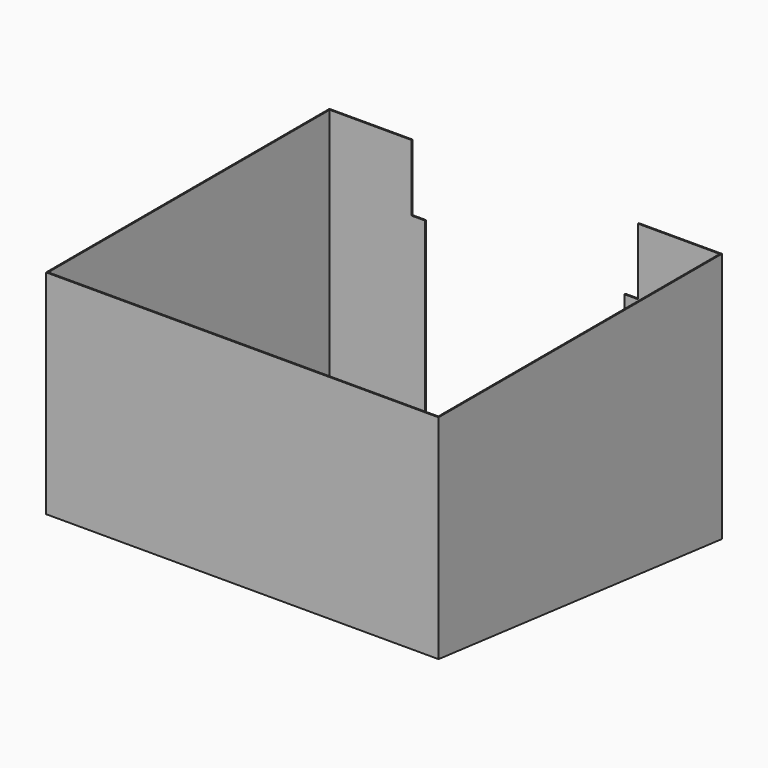
from build123d import *

# Parameters (mm, degrees)
F1_DEPTH = 749.3
F2_T     = -2.286
F4_DEPTH = 3.175


with BuildPart() as f1:
    # F0 (on Right) → F1 (new body)
    with BuildSketch(Plane.YZ):
        Polygon((-676.275, 73.025), (0, 0), (0, 479.425), (-676.275, 479.425), align=None)
    extrude(amount=F1_DEPTH)

    # F2
    f2_openings = [f1.faces().sort_by_distance(p)[0] for p in [
        (374.65, -338.1375, 479.425),
    ]]
    offset(amount=F2_T, openings=f2_openings)

    # F3 (on face) → F4 (cut)
    with BuildSketch(Plane(origin=(0, 0, 0), x_dir=(-1, 0, 0), z_dir=(0, 1, 0))):
        Polygon((-158.75, 479.425), (-590.55, 479.425), (-590.55, 352.425), (-565.15, 352.425), (-565.15, 0), (-184.15, 0), (-184.15, 352.425), (-158.75, 352.425), align=None)
    extrude(amount=-F4_DEPTH, mode=Mode.SUBTRACT)


solid = f1.part
